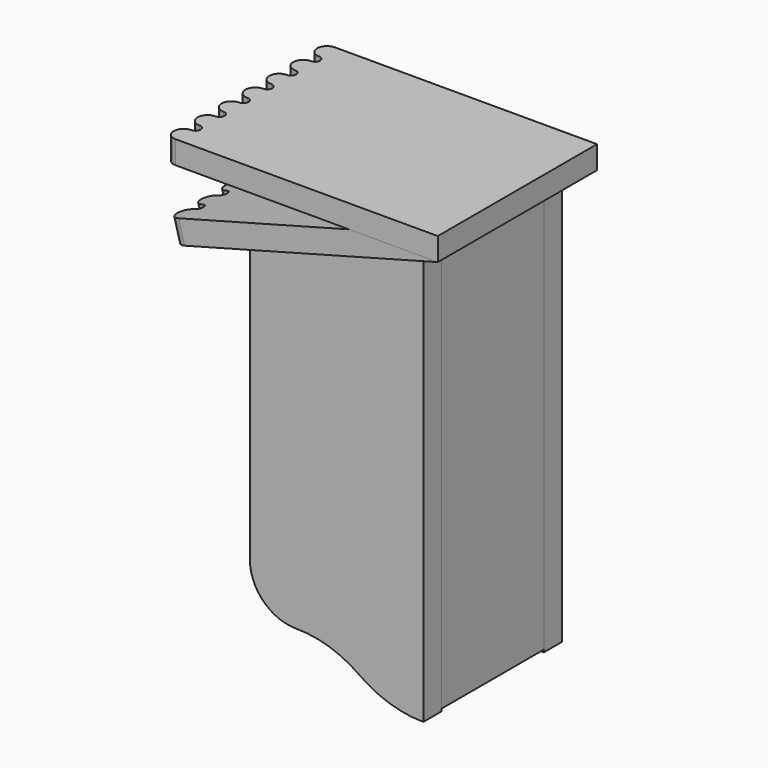
from build123d import *

# Parameters (mm, degrees)
F4_DEPTH  = 18
F5_W      = 82
F5_H      = 141
F6_DEPTH  = 1
F8_W      = 18
F8_H      = 218
F9_DEPTH  = 100
F10_W     = 18
F10_H     = 315.7160159627
F11_DEPTH = 100
F14_DEPTH = 18
F15_R     = 16
F16_DEPTH = 18
F17_W     = 100
F17_H     = 100
F18_DEPTH = 18
F20_DEPTH = 1
F22_DEPTH = 1
F23_ANGLE = 15
F12_W     = 82
F12_H     = 141
F24_DEPTH = 1


with BuildPart() as f4:
    # F3 (on offset) → F4 (new body)
    with BuildSketch(Plane.XZ.offset(50)):
        Polygon((-68, 109), (-68, -109), (68, -109), (68, 145.4410901706), align=None)
        with BuildLine():
            Line((68, -109), (-68, -109))
            ThreePointArc((-68, -109), (-57.4558441227, -134.4558441227), (-32, -145))
            ThreePointArc((-32, -145), (-5.7511905032, -149.0974703225), (18, -161))
            ThreePointArc((18, -161), (41.7511905032, -172.9025296775), (68, -177))
            Line((68, -177), (68, -109))
        make_face()
    extrude(amount=F4_DEPTH)

    # F5 (on face) → F6 (cut)
    with BuildSketch(Plane(origin=(0, -50, 0), x_dir=(-1, 0, 0), z_dir=(0, 1, 0))):
        with Locations((0, -11.5)):
            Rectangle(F5_W, F5_H)
    extrude(amount=-F6_DEPTH, mode=Mode.SUBTRACT)


with BuildPart() as f7_1:
    # F7: instance of F4
    add(f4.part.mirror(Plane.XZ))


with BuildPart() as f9:
    # F8 (on face) → F9 (new body, through all)
    with BuildSketch(Plane.XZ.offset(-50)):
        with Locations((-59, 0)):
            Rectangle(F8_W, F8_H)
    extrude(amount=F9_DEPTH)

    # F15 (on face) → F16 (cut, through all)
    with BuildSketch(Plane(origin=(-68, 0, 0), x_dir=(0, -1, 0), z_dir=(-1, 0, 0))):
        with Locations((0, 59)):
            Circle(F15_R)
    extrude(amount=-F16_DEPTH, mode=Mode.SUBTRACT)

    # F19 (on face) → F20 (cut)
    with BuildSketch(Plane.YZ.offset(-50)):
        with BuildLine():
            Line((-21, 59), (-41, 59))
            Line((-41, 59), (-41, -82))
            Line((-41, -82), (41, -82))
            Line((41, -82), (41, 59))
            Line((41, 59), (21, 59))
            ThreePointArc((21, 59), (0, 38), (-21, 59))
        make_face()
    extrude(amount=-F20_DEPTH, mode=Mode.SUBTRACT)


with BuildPart() as f11:
    # F10 (on face) → F11 (new body, through all)
    with BuildSketch(Plane(origin=(0, -50, 0), x_dir=(-1, 0, 0), z_dir=(0, 1, 0))):
        with Locations((-59, -17.2400032745)):
            Rectangle(F10_W, F10_H)
    extrude(amount=F11_DEPTH)

    # F12 (on face) → F24 (cut)
    with BuildSketch(Plane(origin=(50, 0, 0), x_dir=(0, -1, 0), z_dir=(-1, 0, 0))):
        with Locations((0, -11.5)):
            Rectangle(F12_W, F12_H)
    extrude(amount=-F24_DEPTH, mode=Mode.SUBTRACT)


with BuildPart() as f14:
    # F13 (on face) → F14 (new body)
    with BuildSketch(Plane(origin=(-31.8051362713, 0, 118.6983845063), x_dir=(0.9659258263, 0, 0.2588190451), z_dir=(-0.2588190451, 0, 0.9659258263))):
        with BuildLine():
            Line((-82.0850153983, -78), (123.3258802643, -78))
            Line((123.3258802643, -78), (123.3258802643, 78))
            Line((123.3258802643, 78), (-82.0850153983, 78))
            ThreePointArc((-82.0850153983, 78), (-89.8350153983, 70.25), (-82.0850153983, 62.5))
            ThreePointArc((-82.0850153983, 62.5), (-78.1266820649, 58.5416666667), (-82.0850153983, 54.5833333333))
            ThreePointArc((-82.0850153983, 54.5833333333), (-89.8350153983, 46.8333333333), (-82.0850153983, 39.0833333333))
            ThreePointArc((-82.0850153983, 39.0833333333), (-78.1266820649, 35.125), (-82.0850153983, 31.1666666667))
            ThreePointArc((-82.0850153983, 31.1666666667), (-89.8350153983, 23.4166666667), (-82.0850153983, 15.6666666667))
            ThreePointArc((-82.0850153983, 15.6666666667), (-78.1266820649, 11.7083333333), (-82.0850153983, 7.75))
            ThreePointArc((-82.0850153983, 7.75), (-89.8350153983, 0), (-82.0850153983, -7.75))
            ThreePointArc((-82.0850153983, -7.75), (-78.1266820649, -11.7083333333), (-82.0850153983, -15.6666666667))
            ThreePointArc((-82.0850153983, -15.6666666667), (-89.8350153983, -23.4166666667), (-82.0850153983, -31.1666666667))
            ThreePointArc((-82.0850153983, -31.1666666667), (-78.1266820649, -35.125), (-82.0850153983, -39.0833333333))
            ThreePointArc((-82.0850153983, -39.0833333333), (-89.8350153983, -46.8333333333), (-82.0850153983, -54.5833333333))
            ThreePointArc((-82.0850153983, -54.5833333333), (-78.1266820649, -58.5416666667), (-82.0850153983, -62.5))
            ThreePointArc((-82.0850153983, -62.5), (-89.8350153983, -70.25), (-82.0850153983, -78))
        make_face()
    extrude(amount=F14_DEPTH)

    # F21 (on face) → F22 (cut)
    with BuildSketch(Plane(origin=(-31.8051362713, 0, 118.6983845063), x_dir=(0.9659258263, 0, 0.2588190451), z_dir=(0.2588190451, 0, -0.9659258263))):
        with BuildLine():
            Line((-64.0850153983, 69.8), (-64.0850153983, -69.8))
            ThreePointArc((-64.0850153983, -69.8), (-63.1477570981, -72.0627416998), (-60.8850153983, -73))
            Line((-60.8850153983, -73), (-60.2850153983, -73))
            ThreePointArc((-60.2850153983, -73), (-58.0222736985, -72.0627416998), (-57.0850153983, -69.8))
            Line((-57.0850153983, -69.8), (-57.0850153983, 69.8))
            ThreePointArc((-57.0850153983, 69.8), (-58.0222736985, 72.0627416998), (-60.2850153983, 73))
            Line((-60.2850153983, 73), (-60.8850153983, 73))
            ThreePointArc((-60.8850153983, 73), (-63.1477570981, 72.0627416998), (-64.0850153983, 69.8))
        make_face()
    extrude(amount=-F22_DEPTH, mode=Mode.SUBTRACT)


with BuildPart() as f18:
    # F17 (on face) → F18 (new body)
    with BuildSketch(Plane(origin=(0, 0, -109), x_dir=(1, 0, 0), z_dir=(0, 0, -1))):
        Rectangle(F17_W, F17_H)
    extrude(amount=-F18_DEPTH)


with BuildPart() as f23_1:
    # F23: copy of F14
    add(f14.part.rotate(Axis((87.3185165258, 0, 150.6174710727), (0, 1, 0)), F23_ANGLE))


solid = Compound([f4.part, f7_1.part, f9.part, f11.part, f14.part, f18.part, f23_1.part])
